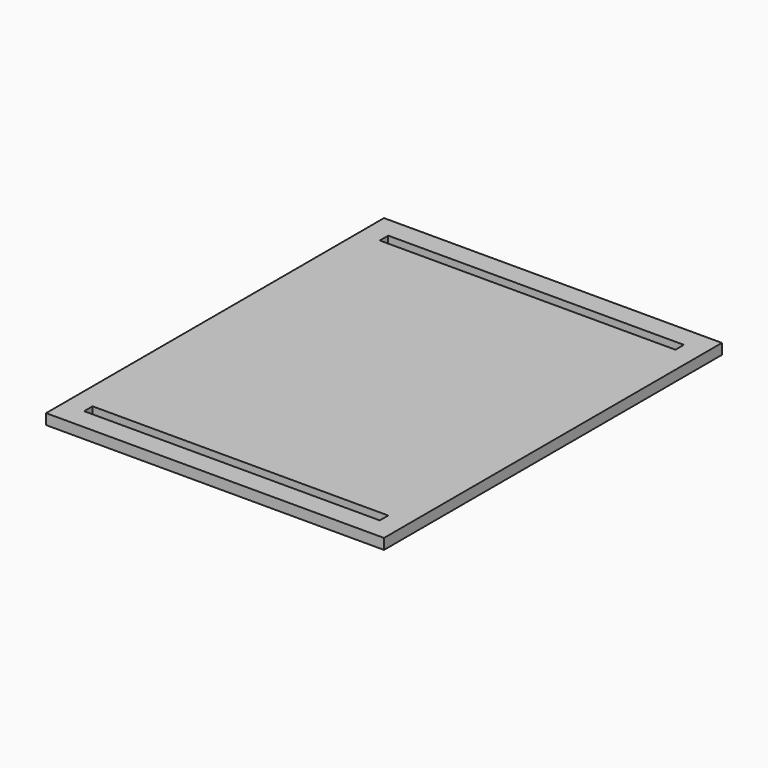
from build123d import *

# Parameters (mm, degrees)
F0_W     = 6.35
F0_H     = 6.35
F0_W_2   = 88.9
F1_DEPTH = 3.175


with BuildPart() as f1:
    # F0 (on Top) → F1 (new body)
    with BuildSketch(Plane.XY):
        with Locations((-43.360994, 113.999984)):
            Rectangle(F0_W, F0_H)
        with Locations((4.264006, 113.999984)):
            Rectangle(F0_W_2, F0_H)
        Polygon((-40.185994, 110.824984), (-46.535994, 110.824984), (-46.535994, -3.475016), (-40.185994, -3.475016), (-40.185994, -0.300016), (48.714006, -0.300016), (48.714006, -3.475016), (55.064006, -3.475016), (55.064006, 110.824984), (48.714006, 110.824984), (48.714006, 107.649984), (-40.185994, 107.649984), align=None)
        with Locations((51.889006, 113.999984)):
            Rectangle(F0_W, F0_H)
        with Locations((-43.360994, -6.650016)):
            Rectangle(F0_W, F0_H)
        Polygon((48.714006, -3.475016), (-40.185994, -3.475016), (-40.185994, -9.825016), (4.264006, -9.825016), (48.714006, -9.825016), align=None)
        with Locations((51.889006, -6.650016)):
            Rectangle(F0_W, F0_H)
        with Locations((4.264006, 113.999984)):
            Rectangle(F0_W_2, F0_H)
    extrude(amount=F1_DEPTH)


solid = f1.part
